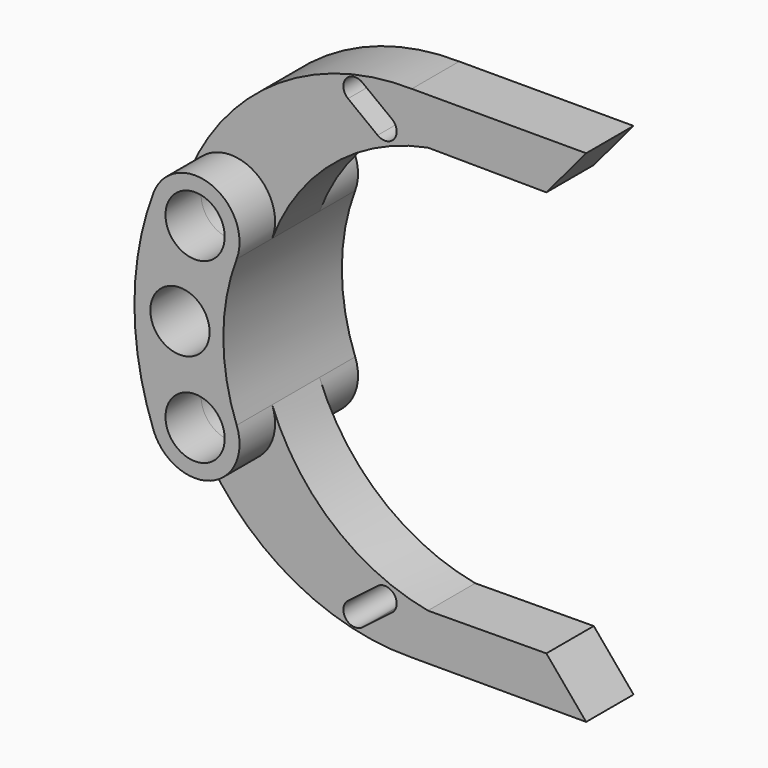
from build123d import *

# Parameters (mm, degrees)
F0_R     = 5
F2_DEPTH = 12.5
F1_R     = 5
F3_DEPTH = 5
F4_R     = 5
F5_DEPTH = 25.001


with BuildPart() as f2:
    # F0 (on Front) → F2 (new body, symmetric)
    with BuildSketch(Plane.XZ):
        with BuildLine():
            ThreePointArc((7.0173413473, 12.3529411765), (2.6470588235, 22.0173413473), (-7.0173413473, 17.6470588235))
            ThreePointArc((-7.0173413473, 17.6470588235), (-10.2350656985, 0), (-7.0173413473, -17.6470588235))
            ThreePointArc((-7.0173413473, -17.6470588235), (2.6470588235, -22.0173413473), (7.0173413473, -12.3529411765))
            ThreePointArc((7.0173413473, -12.3529411765), (4.7649343015, 0), (7.0173413473, 12.3529411765))
        make_face()
        with Locations((0, -15)):
            Circle(F0_R, mode=Mode.SUBTRACT)
        with Locations((0, 15)):
            Circle(F0_R, mode=Mode.SUBTRACT)
    extrude(amount=F2_DEPTH, both=True)

    # F4 (on face) → F5 (cut, through all)
    with BuildSketch(Plane.XZ.offset(12.5)):
        with Locations((-2.5523768673, 0)):
            Circle(F4_R)
    extrude(amount=-F5_DEPTH, mode=Mode.SUBTRACT)


with BuildPart() as f3:
    # F1 (on Front) → F3 (new body, symmetric)
    with BuildSketch(Plane.XZ):
        with BuildLine():
            ThreePointArc((7.0173413473, -12.3529411765), (7.3783487348, -13.6546487642), (7.5, -15))
            ThreePointArc((7.5, -15), (1.5011658977, -22.3482311441), (-6.8990669193, -17.9415770673))
            ThreePointArc((-6.8990669193, -17.9415770673), (8.1283974759, -35.811672677), (30.5726815386, -42.247441175))
            Line((30.5726815386, -42.247441175), (60, -42.247441175))
            Line((60, -42.247441175), (53.2872029506, -34.247441175))
            Line((53.2872029506, -34.247441175), (33.2877505276, -34.3954370573))
            ThreePointArc((33.2877505276, -34.3954370573), (17.2679637609, -26.8120554321), (7.0173413473, -12.3529411765))
        make_face()
        with BuildLine():
            Line((19.8096867162, -37.2948042379), (24.8096867162, -33.4776914401))
            ThreePointArc((24.8096867162, -33.4776914401), (27.6129987803, -33.8537784927), (27.2369117277, -36.6570905568))
            Line((27.2369117277, -36.6570905568), (22.2369117277, -40.4742033546))
            ThreePointArc((22.2369117277, -40.4742033546), (19.4335996636, -40.098116302), (19.8096867162, -37.2948042379))
        make_face(mode=Mode.SUBTRACT)
        with BuildLine():
            ThreePointArc((-6.8990669193, -17.9415770673), (1.5011658977, -22.3482311441), (7.5, -15))
            ThreePointArc((7.5, -15), (7.3783487348, -13.6546487642), (7.0173413473, -12.3529411765))
            ThreePointArc((7.0173413473, -12.3529411765), (-2.794943647, -8.0402377907), (-6.8990669193, -17.9415770673))
        make_face()
        with Locations((0, -15)):
            Circle(F1_R, mode=Mode.SUBTRACT)
        with BuildLine():
            ThreePointArc((7.0173413473, -12.3529411765), (7.3783487348, -13.6546487642), (7.5, -15))
            ThreePointArc((7.5, -15), (1.5011658977, -22.3482311441), (-6.8990669193, -17.9415770673))
            ThreePointArc((-6.8990669193, -17.9415770673), (8.1283974759, -35.811672677), (30.5726815386, -42.247441175))
            Line((30.5726815386, -42.247441175), (60, -42.247441175))
            Line((60, -42.247441175), (53.2872029506, -34.247441175))
            Line((53.2872029506, -34.247441175), (33.2877505276, -34.3954370573))
            ThreePointArc((33.2877505276, -34.3954370573), (17.2679637609, -26.8120554321), (7.0173413473, -12.3529411765))
        make_face()
        with BuildLine():
            Line((19.8096867162, -37.2948042379), (24.8096867162, -33.4776914401))
            ThreePointArc((24.8096867162, -33.4776914401), (27.6129987803, -33.8537784927), (27.2369117277, -36.6570905568))
            Line((27.2369117277, -36.6570905568), (22.2369117277, -40.4742033546))
            ThreePointArc((22.2369117277, -40.4742033546), (19.4335996636, -40.098116302), (19.8096867162, -37.2948042379))
        make_face(mode=Mode.SUBTRACT)
    extrude(amount=F3_DEPTH, both=True)


with BuildPart() as f3b:
    # F1 (on Front) → F3, piece 2 (new body, symmetric)
    with BuildSketch(Plane.XZ):
        with BuildLine():
            Line((60, 42.247441175), (30.5726815386, 42.247441175))
            ThreePointArc((30.5726815386, 42.247441175), (8.1283974759, 35.811672677), (-6.8990669193, 17.9415770673))
            ThreePointArc((-6.8990669193, 17.9415770673), (1.5011658977, 22.3482311441), (7.5, 15))
            ThreePointArc((7.5, 15), (7.3783487348, 13.6546487642), (7.0173413473, 12.3529411765))
            ThreePointArc((7.0173413473, 12.3529411765), (17.2679637609, 26.8120554321), (33.2877505276, 34.3954370573))
            Line((33.2877505276, 34.3954370573), (53.2872029506, 34.247441175))
            Line((53.2872029506, 34.247441175), (60, 42.247441175))
        make_face()
        with BuildLine():
            ThreePointArc((19.8096867162, 37.2948042379), (19.4335996636, 40.098116302), (22.2369117277, 40.4742033546))
            Line((22.2369117277, 40.4742033546), (27.2369117277, 36.6570905568))
            ThreePointArc((27.2369117277, 36.6570905568), (27.6129987803, 33.8537784927), (24.8096867162, 33.4776914401))
            Line((24.8096867162, 33.4776914401), (19.8096867162, 37.2948042379))
        make_face(mode=Mode.SUBTRACT)
        with BuildLine():
            ThreePointArc((7.5, 15), (1.5011658977, 22.3482311441), (-6.8990669193, 17.9415770673))
            ThreePointArc((-6.8990669193, 17.9415770673), (-2.794943647, 8.0402377907), (7.0173413473, 12.3529411765))
            ThreePointArc((7.0173413473, 12.3529411765), (7.3783487348, 13.6546487642), (7.5, 15))
        make_face()
        with Locations((0, 15)):
            Circle(F1_R, mode=Mode.SUBTRACT)
    extrude(amount=F3_DEPTH, both=True)


solid = Compound([f2.part, f3.part, f3b.part])
